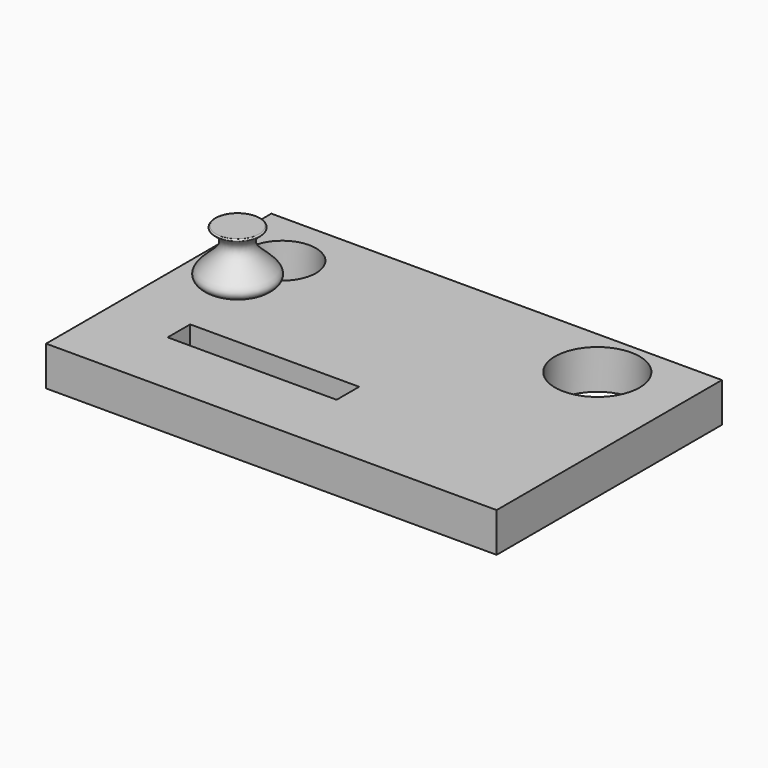
from build123d import *

# Parameters (mm, degrees)
F0_W     = 203.2
F0_H     = 127
F0_W_2   = 76.2
F0_H_2   = 12.7
F0_R     = 15.24
F0_R_2   = 19.05
F1_DEPTH = 17.78
F4_R     = 0.508


with BuildPart() as f1:
    # F0 (on Top) → F1 (new body)
    with BuildSketch(Plane.XY):
        with Locations((38.6694358299, 0.803489238)):
            Rectangle(F0_W, F0_H)
        with Locations((5.614640674, -25.866510762)):
            Rectangle(F0_W_2, F0_H_2, mode=Mode.SUBTRACT)
        with Locations((-37.5305641701, 38.6425306101)):
            Circle(F0_R, mode=Mode.SUBTRACT)
        with Locations((102.1694358299, 41.6870533127)):
            Circle(F0_R_2, mode=Mode.SUBTRACT)
    extrude(amount=F1_DEPTH)


with BuildPart() as f3:
    # F2 (on Front) → F3 (revolve)
    with BuildSketch(Plane.XZ):
        with BuildLine():
            Line((-26.7084483057, 50.7631446134), (-38.1558263673, 50.7631446134))
            add(Edge.make_bspline(
                [(-38.1558263673, 50.7631446134), (-20.2246569097, 40.1995107532), (-58.0900087953, 33.7157212198), (-35.0553236364, 26.3956910868)],
                knots=[0, 0, 0, 0, 24.5639147645, 24.5639147645, 24.5639147645, 24.5639147645], degree=3))
            Line((-35.0553236364, 26.3956910868), (-26.7084483057, 26.7132241279))
            Line((-26.7084483057, 26.7132241279), (-26.7084483057, 50.7631446134))
        make_face()
    revolve(axis=Axis((-26.7084483057, 0, 38.7381843706), (0, 0, -1)))

    # F4
    f4_edges = [f3.edges().sort_by_distance(p)[0] for p in [
        (-15.26107, 0, 50.763145),
    ]]
    fillet(f4_edges, radius=F4_R)


solid = Compound([f1.part, f3.part])
